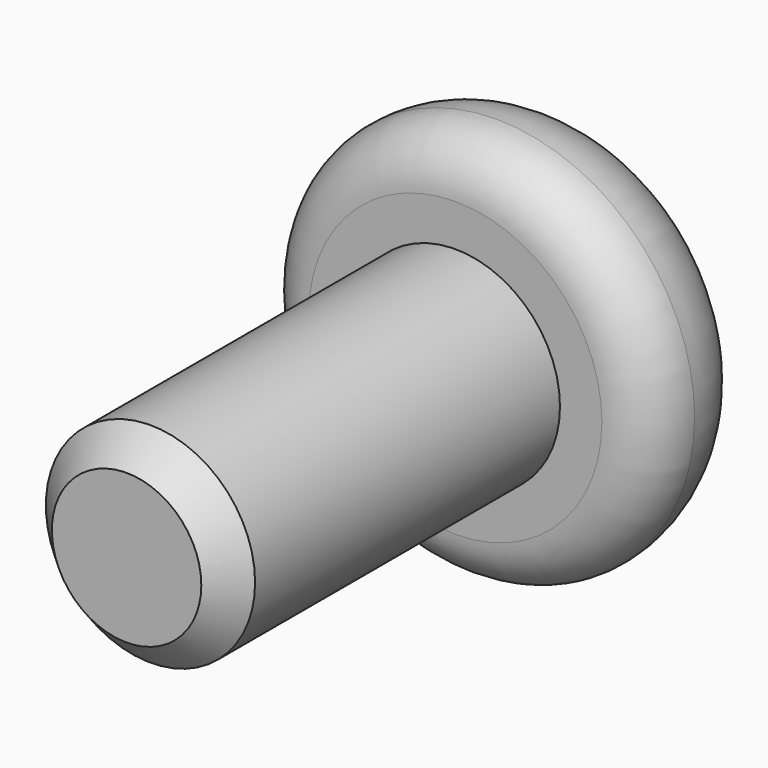
from build123d import *

# Parameters (mm, degrees)
POCKET_DEPTH = 1


with BuildPart() as part:
    # Sketch → Revolution (revolve)
    with BuildSketch(Plane.XY):
        with BuildLine():
            Line((0, -5.5), (1, -5.5))
            Line((1, -5.5), (1.4, -5.1))
            Line((1.4, -5.1), (1.4, 0))
            Line((1.4, 0), (1.961192, 0))
            ThreePointArc((1.961192, 0), (2.448253, 0.201747), (2.65, 0.688808))
            ThreePointArc((2.65, 0.688808), (2.265961, 1.615961), (1.338808, 2))
            Line((1.338808, 2), (0, 2))
            Line((0, 2), (0, -5.5))
        make_face()
    revolve(axis=Axis((0, 0, 0), (0, 1, 0)))

    # Sketch001 (on Face7 of Revolution) → Pocket (cut)
    with BuildSketch(Plane(origin=(0, 2, 0), x_dir=(-1, 0, 0), z_dir=(0, 1, 0))):
        Polygon((0.754634, 1.307064), (0, 1.158183), (-0.754634, 1.307064), (-1.003016, 0.579091), (-1.509267, 0), (-1.003016, -0.579091), (-0.754634, -1.307064), (0, -1.158183), (0.754634, -1.307064), (1.003016, -0.579091), (1.509267, 0), (1.003016, 0.579091), align=None)
    extrude(amount=-POCKET_DEPTH, mode=Mode.SUBTRACT)


solid = part.part
